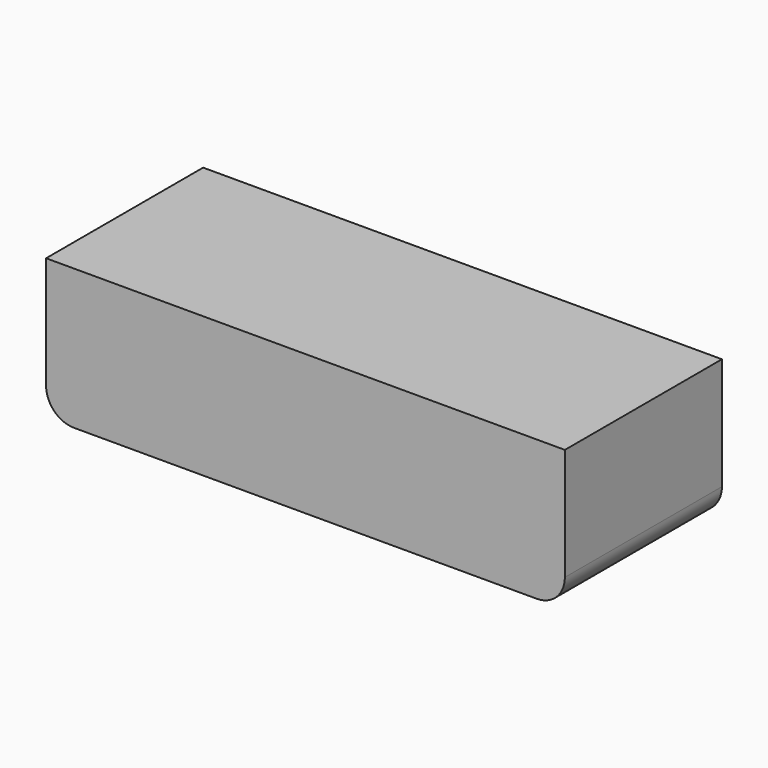
from build123d import *

# Parameters (mm, degrees)
SKETCH_W  = 1.85
SKETCH_H  = 0.7
PAD_DEPTH = 0.5
FILLET_R  = 0.1


with BuildPart() as part:
    # Sketch → Pad (new body)
    with BuildSketch(Plane.XY):
        Rectangle(SKETCH_W, SKETCH_H)
    extrude(amount=-PAD_DEPTH)

    # Fillet
    fillet_edges = [part.edges().sort_by_distance(p)[0] for p in [
        (-0.925, 0, -0.5),
        (0.925, 0, -0.5),
    ]]
    fillet(fillet_edges, radius=FILLET_R)


solid = part.part
